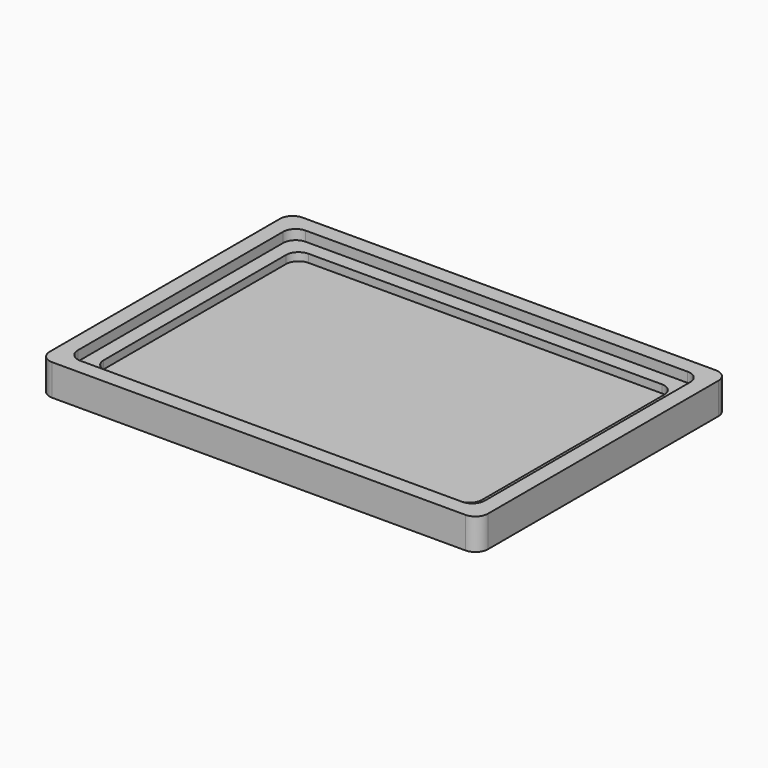
from build123d import *

# Parameters (mm, degrees)
F0_W     = 88.9
F0_H     = 63.5
F1_DEPTH = 6.35
F2_R     = 2.54
F4_DEPTH = 2
F6_DEPTH = 1.6256


with BuildPart() as f1:
    # F0 (on Top) → F1 (new body)
    with BuildSketch(Plane.XY):
        Rectangle(F0_W, F0_H)
    extrude(amount=F1_DEPTH)

    # F2
    f2_edges = [f1.edges().sort_by_distance(p)[0] for p in [
        (-44.45, -31.75, 3.175),
        (44.45, -31.75, 3.175),
        (44.45, 31.75, 3.175),
        (-44.45, 31.75, 3.175),
    ]]
    fillet(f2_edges, radius=F2_R)

    # F3 (on face) → F4 (cut)
    with BuildSketch(Plane.XY.offset(6.35)):
        with BuildLine():
            Line((38.735, 28.575), (-38.735, 28.575))
            ThreePointArc((-38.735, 28.575), (-40.531051, 27.831051), (-41.275, 26.035))
            Line((-41.275, 26.035), (-41.275, -26.035))
            ThreePointArc((-41.275, -26.035), (-40.531051, -27.831051), (-38.735, -28.575))
            Line((-38.735, -28.575), (38.735, -28.575))
            ThreePointArc((38.735, -28.575), (40.531051, -27.831051), (41.275, -26.035))
            Line((41.275, -26.035), (41.275, 26.035))
            ThreePointArc((41.275, 26.035), (40.531051, 27.831051), (38.735, 28.575))
        make_face()
    extrude(amount=-F4_DEPTH, mode=Mode.SUBTRACT)

    # F5 (on face) → F6 (cut)
    with BuildSketch(Plane.XY.offset(4.35)):
        with BuildLine():
            Line((35.814, 25.654), (-35.814, 25.654))
            ThreePointArc((-35.814, 25.654), (-37.610051, 24.910051), (-38.354, 23.114))
            Line((-38.354, 23.114), (-38.354, -23.114))
            ThreePointArc((-38.354, -23.114), (-37.610051, -24.910051), (-35.814, -25.654))
            Line((-35.814, -25.654), (35.814, -25.654))
            ThreePointArc((35.814, -25.654), (37.610051, -24.910051), (38.354, -23.114))
            Line((38.354, -23.114), (38.354, 23.114))
            ThreePointArc((38.354, 23.114), (37.610051, 24.910051), (35.814, 25.654))
        make_face()
    extrude(amount=-F6_DEPTH, mode=Mode.SUBTRACT)


solid = f1.part
